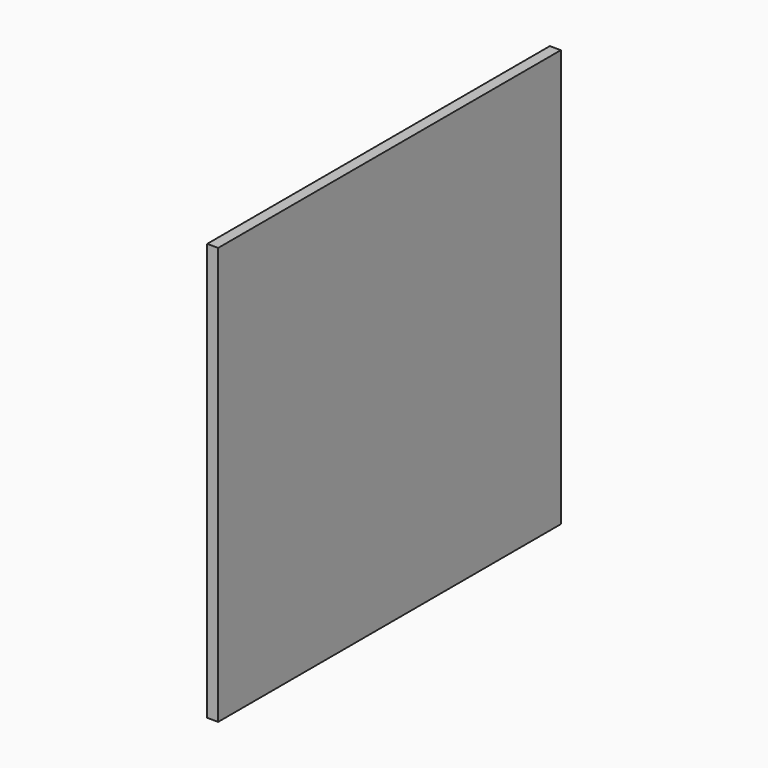
from build123d import *

# Parameters (mm, degrees)
F0_W     = 700
F0_H     = 682
F1_DEPTH = 18
F2_R     = 1.5
F3_DEPTH = 5
F4_R     = 2.5
F5_DEPTH = 6


with BuildPart() as f1:
    # F0 (on Right) → F1 (new body)
    with BuildSketch(Plane.YZ):
        Rectangle(F0_W, F0_H)
    extrude(amount=F1_DEPTH)

    # F2 (on face) → F3 (cut)
    with BuildSketch(Plane(origin=(0, 0, -341), x_dir=(1, 0, 0), z_dir=(0, 0, -1))):
        with Locations((9, 325)):
            Circle(F2_R)
        with Locations((9, -325)):
            Circle(F2_R)
    extrude(amount=-F3_DEPTH, mode=Mode.SUBTRACT)

    # F4 (on face) → F5 (cut)
    with BuildSketch(Plane(origin=(0, 0, 0), x_dir=(0, -1, 0), z_dir=(-1, 0, 0))):
        with Locations((-150, 0)):
            Circle(F4_R)
        with Locations((150, 0)):
            Circle(F4_R)
        with Locations((-150, -50)):
            Circle(F4_R)
        with Locations((150, -50)):
            Circle(F4_R)
        with Locations((-150, -100)):
            Circle(F4_R)
        with Locations((150, -100)):
            Circle(F4_R)
    extrude(amount=-F5_DEPTH, mode=Mode.SUBTRACT)


solid = f1.part
